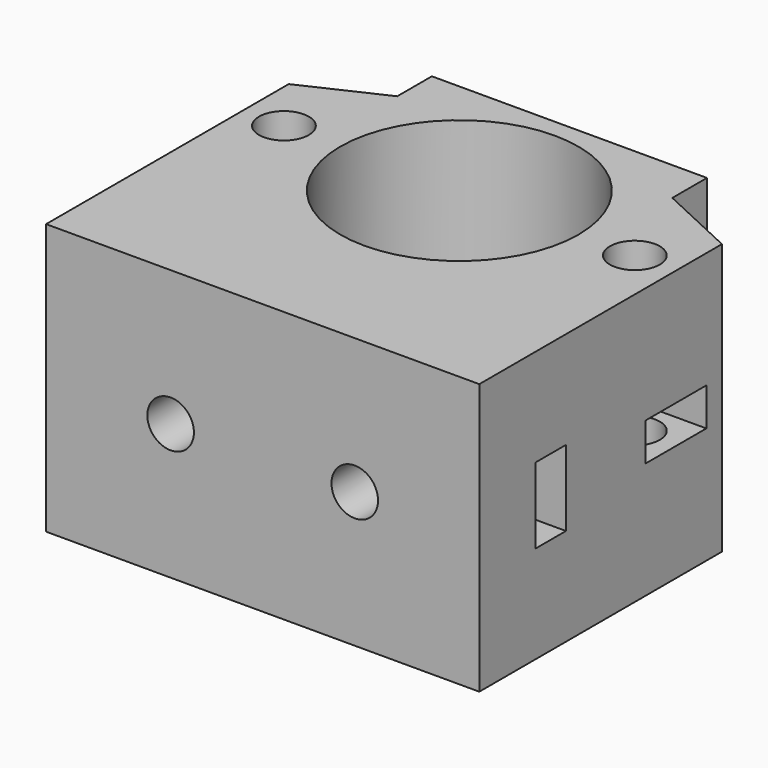
from build123d import *

# Parameters (mm, degrees)
F0_W      = 40
F0_H      = 35.4
F0_R      = 2.3
F0_R_2    = 11
F1_DEPTH  = 25
F2_R      = 2.15
F3_DEPTH  = 13
F5_START  = -6.5
F5_DEPTH  = 3.5
F6_W      = 3.5
F6_H      = 7
F7_DEPTH  = 10
F8_START  = -27
F8_DEPTH  = 23
F10_W     = 7
F10_H     = 3.5
F11_DEPTH = 8.5
F12_START = -31.5
F12_DEPTH = 18.5
F13_DEPTH = 25


with BuildPart() as f1:
    # F0 (on Top) → F1 (new body)
    with BuildSketch(Plane.XY):
        with Locations((0, -5)):
            Rectangle(F0_W, F0_H)
        with Locations((-16.2, 0)):
            Circle(F0_R, mode=Mode.SUBTRACT)
        Circle(F0_R_2, mode=Mode.SUBTRACT)
        with Locations((16.2, 0)):
            Circle(F0_R, mode=Mode.SUBTRACT)
    extrude(amount=F1_DEPTH)

    # F2 (on face) → F3 (cut)
    with BuildSketch(Plane.XZ.offset(22.7)):
        with Locations((-8.5, 12.5)):
            Circle(F2_R)
        with Locations((8.5, 12.5)):
            Circle(F2_R)
    extrude(amount=-F3_DEPTH, mode=Mode.SUBTRACT)

    # F4 (on face) → F5 (cut)
    with BuildSketch(Plane.XZ.offset(22.7).offset(F5_START)):
        Polygon((-6.4792740578, 16), (-10.5207259422, 16), (-12.5414518843, 12.5), (-10.5207259422, 9), (-6.4792740578, 9), (-4.4585481157, 12.5), align=None)
        Polygon((12.5414518843, 12.5), (10.5207259422, 16), (6.4792740578, 16), (4.4585481157, 12.5), (6.4792740578, 9), (10.5207259422, 9), align=None)
    extrude(amount=-F5_DEPTH, mode=Mode.SUBTRACT)

    # F6 (on face) → F7 (cut)
    with BuildSketch(Plane(origin=(-20, 0, 0), x_dir=(0, -1, 0), z_dir=(-1, 0, 0))):
        with Locations((14.45, 12.5)):
            Rectangle(F6_W, F6_H)
    extrude(amount=-F7_DEPTH, mode=Mode.SUBTRACT)

    # F6 (on face) → F8 (cut)
    with BuildSketch(Plane(origin=(-20, 0, 0), x_dir=(0, -1, 0), z_dir=(-1, 0, 0)).offset(F8_START)):
        with Locations((14.45, 12.5)):
            Rectangle(F6_W, F6_H)
    extrude(amount=-F8_DEPTH, mode=Mode.SUBTRACT)

    # F10 (on face) → F11 (cut)
    with BuildSketch(Plane(origin=(-20, 0, 0), x_dir=(0, -1, 0), z_dir=(-1, 0, 0))):
        with Locations((0, 12.5)):
            Rectangle(F10_W, F10_H)
    extrude(amount=-F11_DEPTH, mode=Mode.SUBTRACT)

    # F10 (on face) → F12 (cut)
    with BuildSketch(Plane(origin=(-20, 0, 0), x_dir=(0, -1, 0), z_dir=(-1, 0, 0)).offset(F12_START)):
        with Locations((0, 12.5)):
            Rectangle(F10_W, F10_H)
    extrude(amount=-F12_DEPTH, mode=Mode.SUBTRACT)

    # F9 (on face) → F13 (cut)
    with BuildSketch(Plane.XY.offset(25)):
        Polygon((-20, 5.3), (-12.7, 8.7), (-12.7, 12.7), (-20, 12.7), align=None)
        Polygon((20, 12.7), (12.7, 12.7), (12.7, 8.7), (20, 5.3), align=None)
    extrude(amount=-F13_DEPTH, mode=Mode.SUBTRACT)


solid = f1.part
